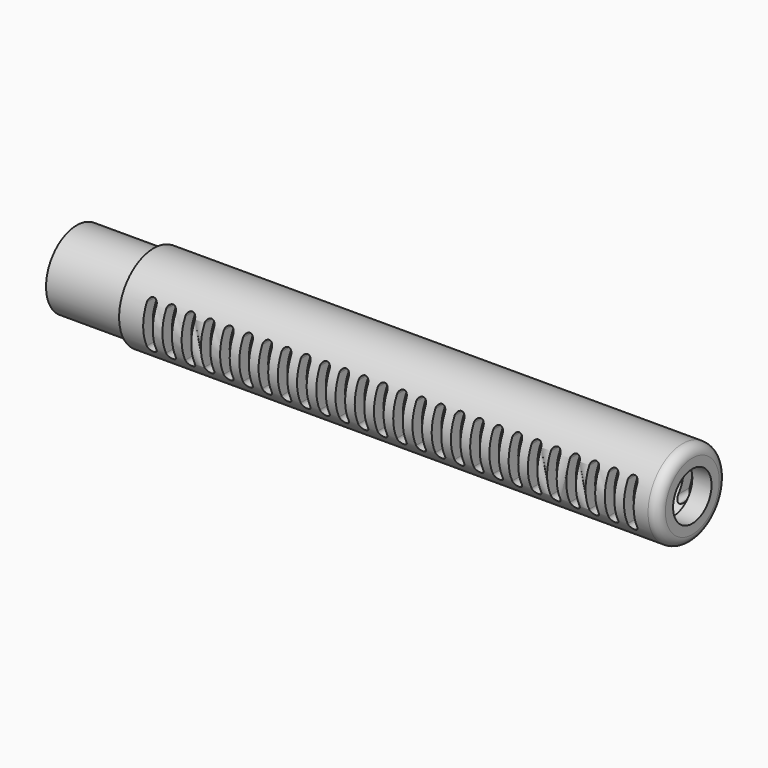
from build123d import *

# Parameters (mm, degrees)
F0_R           = 7.14375
F1_DEPTH       = 101.6
F3_D           = 10.31875
F4_R           = 12.7
F4_R_2         = 6.35
F5_DEPTH       = 12.7
F6_R           = 5.159375
F6_R_2         = 3.96875
F7_DEPTH       = 3.175
F8_R           = 1.5875
F10_DEPTH      = 7.14475
F10_DEPTH_BACK = 7.14475


with BuildPart() as f1:
    # F0 (on Right) → F1 (new body)
    with BuildSketch(Plane.YZ):
        Circle(F0_R)
    extrude(amount=F1_DEPTH)

    # F3 (through all)
    with Locations(Plane(origin=(0, 0, 0), x_dir=(0, 1, 0), z_dir=(-1, 0, 0))):
        with Locations((0, 0)):
            Hole(F3_D / 2)

    # F4 (on Right) → F5 (cut)
    with BuildSketch(Plane.YZ):
        Circle(F4_R)
        Circle(F4_R_2, mode=Mode.SUBTRACT)
    extrude(amount=F5_DEPTH, mode=Mode.SUBTRACT)

    # F6 (on face) → F7 (join)
    with BuildSketch(Plane.YZ.offset(101.6)):
        Circle(F6_R)
        Circle(F6_R_2, mode=Mode.SUBTRACT)
    extrude(amount=-F7_DEPTH)

    # F8
    f8_edges = [f1.edges().sort_by_distance(p)[0] for p in [
        (101.6, -7.14375, 0),
    ]]
    fillet(f8_edges, radius=F8_R)

    # F9 (on Front) → F10 (cut, two sides)
    with BuildSketch(Plane.XZ) as f10_sk:
        with BuildLine():
            Line((89.69375, 3.175), (89.69375, -3.175))
            ThreePointArc((89.69375, -3.175), (89.9262339924, -3.7362660076), (90.4875, -3.96875))
            ThreePointArc((90.4875, -3.96875), (91.0487660076, -3.7362660076), (91.28125, -3.175))
            Line((91.28125, -3.175), (91.28125, 3.175))
            ThreePointArc((91.28125, 3.175), (91.0487660076, 3.7362660076), (90.4875, 3.96875))
            ThreePointArc((90.4875, 3.96875), (89.9262339924, 3.7362660076), (89.69375, 3.175))
        make_face()
        with BuildLine():
            Line((86.51875, 3.175), (86.51875, -3.175))
            ThreePointArc((86.51875, -3.175), (86.7512339924, -3.7362660076), (87.3125, -3.96875))
            ThreePointArc((87.3125, -3.96875), (87.8737660076, -3.7362660076), (88.10625, -3.175))
            Line((88.10625, -3.175), (88.10625, 3.175))
            ThreePointArc((88.10625, 3.175), (87.8737660076, 3.7362660076), (87.3125, 3.96875))
            ThreePointArc((87.3125, 3.96875), (86.7512339924, 3.7362660076), (86.51875, 3.175))
        make_face()
        with BuildLine():
            Line((83.34375, 3.175), (83.34375, -3.175))
            ThreePointArc((83.34375, -3.175), (83.5762339924, -3.7362660076), (84.1375, -3.96875))
            ThreePointArc((84.1375, -3.96875), (84.6987660076, -3.7362660076), (84.93125, -3.175))
            Line((84.93125, -3.175), (84.93125, 3.175))
            ThreePointArc((84.93125, 3.175), (84.6987660076, 3.7362660076), (84.1375, 3.96875))
            ThreePointArc((84.1375, 3.96875), (83.5762339924, 3.7362660076), (83.34375, 3.175))
        make_face()
        with BuildLine():
            Line((80.16875, 3.175), (80.16875, -3.175))
            ThreePointArc((80.16875, -3.175), (80.4012339924, -3.7362660076), (80.9625, -3.96875))
            ThreePointArc((80.9625, -3.96875), (81.5237660076, -3.7362660076), (81.75625, -3.175))
            Line((81.75625, -3.175), (81.75625, 3.175))
            ThreePointArc((81.75625, 3.175), (81.5237660076, 3.7362660076), (80.9625, 3.96875))
            ThreePointArc((80.9625, 3.96875), (80.4012339924, 3.7362660076), (80.16875, 3.175))
        make_face()
        with BuildLine():
            Line((76.99375, 3.175), (76.99375, -3.175))
            ThreePointArc((76.99375, -3.175), (77.2262339924, -3.7362660076), (77.7875, -3.96875))
            ThreePointArc((77.7875, -3.96875), (78.3487660076, -3.7362660076), (78.58125, -3.175))
            Line((78.58125, -3.175), (78.58125, 3.175))
            ThreePointArc((78.58125, 3.175), (78.3487660076, 3.7362660076), (77.7875, 3.96875))
            ThreePointArc((77.7875, 3.96875), (77.2262339924, 3.7362660076), (76.99375, 3.175))
        make_face()
        with BuildLine():
            Line((73.81875, 3.175), (73.81875, -3.175))
            ThreePointArc((73.81875, -3.175), (74.0512339924, -3.7362660076), (74.6125, -3.96875))
            ThreePointArc((74.6125, -3.96875), (75.1737660076, -3.7362660076), (75.40625, -3.175))
            Line((75.40625, -3.175), (75.40625, 3.175))
            ThreePointArc((75.40625, 3.175), (75.1737660076, 3.7362660076), (74.6125, 3.96875))
            ThreePointArc((74.6125, 3.96875), (74.0512339924, 3.7362660076), (73.81875, 3.175))
        make_face()
        with BuildLine():
            Line((70.64375, 3.175), (70.64375, -3.175))
            ThreePointArc((70.64375, -3.175), (70.8762339924, -3.7362660076), (71.4375, -3.96875))
            ThreePointArc((71.4375, -3.96875), (71.9987660076, -3.7362660076), (72.23125, -3.175))
            Line((72.23125, -3.175), (72.23125, 3.175))
            ThreePointArc((72.23125, 3.175), (71.9987660076, 3.7362660076), (71.4375, 3.96875))
            ThreePointArc((71.4375, 3.96875), (70.8762339924, 3.7362660076), (70.64375, 3.175))
        make_face()
        with BuildLine():
            Line((67.46875, 3.175), (67.46875, -3.175))
            ThreePointArc((67.46875, -3.175), (67.7012339924, -3.7362660076), (68.2625, -3.96875))
            ThreePointArc((68.2625, -3.96875), (68.8237660076, -3.7362660076), (69.05625, -3.175))
            Line((69.05625, -3.175), (69.05625, 3.175))
            ThreePointArc((69.05625, 3.175), (68.8237660076, 3.7362660076), (68.2625, 3.96875))
            ThreePointArc((68.2625, 3.96875), (67.7012339924, 3.7362660076), (67.46875, 3.175))
        make_face()
        with BuildLine():
            Line((64.29375, 3.175), (64.29375, -3.175))
            ThreePointArc((64.29375, -3.175), (64.5262339924, -3.7362660076), (65.0875, -3.96875))
            ThreePointArc((65.0875, -3.96875), (65.6487660076, -3.7362660076), (65.88125, -3.175))
            Line((65.88125, -3.175), (65.88125, 3.175))
            ThreePointArc((65.88125, 3.175), (65.6487660076, 3.7362660076), (65.0875, 3.96875))
            ThreePointArc((65.0875, 3.96875), (64.5262339924, 3.7362660076), (64.29375, 3.175))
        make_face()
        with BuildLine():
            Line((61.11875, 3.175), (61.11875, -3.175))
            ThreePointArc((61.11875, -3.175), (61.3512339924, -3.7362660076), (61.9125, -3.96875))
            ThreePointArc((61.9125, -3.96875), (62.4737660076, -3.7362660076), (62.70625, -3.175))
            Line((62.70625, -3.175), (62.70625, 3.175))
            ThreePointArc((62.70625, 3.175), (62.4737660076, 3.7362660076), (61.9125, 3.96875))
            ThreePointArc((61.9125, 3.96875), (61.3512339924, 3.7362660076), (61.11875, 3.175))
        make_face()
        with BuildLine():
            Line((57.94375, 3.175), (57.94375, -3.175))
            ThreePointArc((57.94375, -3.175), (58.1762339924, -3.7362660076), (58.7375, -3.96875))
            ThreePointArc((58.7375, -3.96875), (59.2987660076, -3.7362660076), (59.53125, -3.175))
            Line((59.53125, -3.175), (59.53125, 3.175))
            ThreePointArc((59.53125, 3.175), (59.2987660076, 3.7362660076), (58.7375, 3.96875))
            ThreePointArc((58.7375, 3.96875), (58.1762339924, 3.7362660076), (57.94375, 3.175))
        make_face()
        with BuildLine():
            Line((23.01875, 3.175), (23.01875, -3.175))
            ThreePointArc((23.01875, -3.175), (23.2512339924, -3.7362660076), (23.8125, -3.96875))
            ThreePointArc((23.8125, -3.96875), (24.3737660076, -3.7362660076), (24.60625, -3.175))
            Line((24.60625, -3.175), (24.60625, 3.175))
            ThreePointArc((24.60625, 3.175), (24.3737660076, 3.7362660076), (23.8125, 3.96875))
            ThreePointArc((23.8125, 3.96875), (23.2512339924, 3.7362660076), (23.01875, 3.175))
        make_face()
        with BuildLine():
            Line((26.19375, 3.175), (26.19375, -3.175))
            ThreePointArc((26.19375, -3.175), (26.4262339924, -3.7362660076), (26.9875, -3.96875))
            ThreePointArc((26.9875, -3.96875), (27.5487660076, -3.7362660076), (27.78125, -3.175))
            Line((27.78125, -3.175), (27.78125, 3.175))
            ThreePointArc((27.78125, 3.175), (27.5487660076, 3.7362660076), (26.9875, 3.96875))
            ThreePointArc((26.9875, 3.96875), (26.4262339924, 3.7362660076), (26.19375, 3.175))
        make_face()
        with BuildLine():
            Line((19.84375, 3.175), (19.84375, -3.175))
            ThreePointArc((19.84375, -3.175), (20.0762339924, -3.7362660076), (20.6375, -3.96875))
            ThreePointArc((20.6375, -3.96875), (21.1987660076, -3.7362660076), (21.43125, -3.175))
            Line((21.43125, -3.175), (21.43125, 3.175))
            ThreePointArc((21.43125, 3.175), (21.1987660076, 3.7362660076), (20.6375, 3.96875))
            ThreePointArc((20.6375, 3.96875), (20.0762339924, 3.7362660076), (19.84375, 3.175))
        make_face()
        with BuildLine():
            Line((16.66875, 3.175), (16.66875, -3.175))
            ThreePointArc((16.66875, -3.175), (16.9012339924, -3.7362660076), (17.4625, -3.96875))
            ThreePointArc((17.4625, -3.96875), (18.0237660076, -3.7362660076), (18.25625, -3.175))
            Line((18.25625, -3.175), (18.25625, 3.175))
            ThreePointArc((18.25625, 3.175), (18.0237660076, 3.7362660076), (17.4625, 3.96875))
            ThreePointArc((17.4625, 3.96875), (16.9012339924, 3.7362660076), (16.66875, 3.175))
        make_face()
        with BuildLine():
            Line((48.41875, 3.175), (48.41875, -3.175))
            ThreePointArc((48.41875, -3.175), (48.6512339924, -3.7362660076), (49.2125, -3.96875))
            ThreePointArc((49.2125, -3.96875), (49.7737660076, -3.7362660076), (50.00625, -3.175))
            Line((50.00625, -3.175), (50.00625, 3.175))
            ThreePointArc((50.00625, 3.175), (49.7737660076, 3.7362660076), (49.2125, 3.96875))
            ThreePointArc((49.2125, 3.96875), (48.6512339924, 3.7362660076), (48.41875, 3.175))
        make_face()
        with BuildLine():
            Line((54.76875, 3.175), (54.76875, -3.175))
            ThreePointArc((54.76875, -3.175), (55.0012339924, -3.7362660076), (55.5625, -3.96875))
            ThreePointArc((55.5625, -3.96875), (56.1237660076, -3.7362660076), (56.35625, -3.175))
            Line((56.35625, -3.175), (56.35625, 3.175))
            ThreePointArc((56.35625, 3.175), (56.1237660076, 3.7362660076), (55.5625, 3.96875))
            ThreePointArc((55.5625, 3.96875), (55.0012339924, 3.7362660076), (54.76875, 3.175))
        make_face()
        with BuildLine():
            Line((51.59375, 3.175), (51.59375, -3.175))
            ThreePointArc((51.59375, -3.175), (51.8262339924, -3.7362660076), (52.3875, -3.96875))
            ThreePointArc((52.3875, -3.96875), (52.9487660076, -3.7362660076), (53.18125, -3.175))
            Line((53.18125, -3.175), (53.18125, 3.175))
            ThreePointArc((53.18125, 3.175), (52.9487660076, 3.7362660076), (52.3875, 3.96875))
            ThreePointArc((52.3875, 3.96875), (51.8262339924, 3.7362660076), (51.59375, 3.175))
        make_face()
        with BuildLine():
            Line((32.54375, 3.175), (32.54375, -3.175))
            ThreePointArc((32.54375, -3.175), (32.7762339924, -3.7362660076), (33.3375, -3.96875))
            ThreePointArc((33.3375, -3.96875), (33.8987660076, -3.7362660076), (34.13125, -3.175))
            Line((34.13125, -3.175), (34.13125, 3.175))
            ThreePointArc((34.13125, 3.175), (33.8987660076, 3.7362660076), (33.3375, 3.96875))
            ThreePointArc((33.3375, 3.96875), (32.7762339924, 3.7362660076), (32.54375, 3.175))
        make_face()
        with BuildLine():
            Line((29.36875, 3.175), (29.36875, -3.175))
            ThreePointArc((29.36875, -3.175), (29.6012339924, -3.7362660076), (30.1625, -3.96875))
            ThreePointArc((30.1625, -3.96875), (30.7237660076, -3.7362660076), (30.95625, -3.175))
            Line((30.95625, -3.175), (30.95625, 3.175))
            ThreePointArc((30.95625, 3.175), (30.7237660076, 3.7362660076), (30.1625, 3.96875))
            ThreePointArc((30.1625, 3.96875), (29.6012339924, 3.7362660076), (29.36875, 3.175))
        make_face()
        with BuildLine():
            Line((38.89375, 3.175), (38.89375, -3.175))
            ThreePointArc((38.89375, -3.175), (39.1262339924, -3.7362660076), (39.6875, -3.96875))
            ThreePointArc((39.6875, -3.96875), (40.2487660076, -3.7362660076), (40.48125, -3.175))
            Line((40.48125, -3.175), (40.48125, 3.175))
            ThreePointArc((40.48125, 3.175), (40.2487660076, 3.7362660076), (39.6875, 3.96875))
            ThreePointArc((39.6875, 3.96875), (39.1262339924, 3.7362660076), (38.89375, 3.175))
        make_face()
        with BuildLine():
            Line((35.71875, 3.175), (35.71875, -3.175))
            ThreePointArc((35.71875, -3.175), (35.9512339924, -3.7362660076), (36.5125, -3.96875))
            ThreePointArc((36.5125, -3.96875), (37.0737660076, -3.7362660076), (37.30625, -3.175))
            Line((37.30625, -3.175), (37.30625, 3.175))
            ThreePointArc((37.30625, 3.175), (37.0737660076, 3.7362660076), (36.5125, 3.96875))
            ThreePointArc((36.5125, 3.96875), (35.9512339924, 3.7362660076), (35.71875, 3.175))
        make_face()
        with BuildLine():
            Line((42.06875, 3.175), (42.06875, -3.175))
            ThreePointArc((42.06875, -3.175), (42.3012339924, -3.7362660076), (42.8625, -3.96875))
            ThreePointArc((42.8625, -3.96875), (43.4237660076, -3.7362660076), (43.65625, -3.175))
            Line((43.65625, -3.175), (43.65625, 3.175))
            ThreePointArc((43.65625, 3.175), (43.4237660076, 3.7362660076), (42.8625, 3.96875))
            ThreePointArc((42.8625, 3.96875), (42.3012339924, 3.7362660076), (42.06875, 3.175))
        make_face()
        with BuildLine():
            Line((45.24375, 3.175), (45.24375, -3.175))
            ThreePointArc((45.24375, -3.175), (45.4762339924, -3.7362660076), (46.0375, -3.96875))
            ThreePointArc((46.0375, -3.96875), (46.5987660076, -3.7362660076), (46.83125, -3.175))
            Line((46.83125, -3.175), (46.83125, 3.175))
            ThreePointArc((46.83125, 3.175), (46.5987660076, 3.7362660076), (46.0375, 3.96875))
            ThreePointArc((46.0375, 3.96875), (45.4762339924, 3.7362660076), (45.24375, 3.175))
        make_face()
        with BuildLine():
            Line((96.04375, 3.175), (96.04375, -3.175))
            ThreePointArc((96.04375, -3.175), (96.2762339924, -3.7362660076), (96.8375, -3.96875))
            ThreePointArc((96.8375, -3.96875), (97.3987660076, -3.7362660076), (97.63125, -3.175))
            Line((97.63125, -3.175), (97.63125, 3.175))
            ThreePointArc((97.63125, 3.175), (97.3987660076, 3.7362660076), (96.8375, 3.96875))
            ThreePointArc((96.8375, 3.96875), (96.2762339924, 3.7362660076), (96.04375, 3.175))
        make_face()
        with BuildLine():
            Line((92.86875, 3.175), (92.86875, -3.175))
            ThreePointArc((92.86875, -3.175), (93.1012339924, -3.7362660076), (93.6625, -3.96875))
            ThreePointArc((93.6625, -3.96875), (94.2237660076, -3.7362660076), (94.45625, -3.175))
            Line((94.45625, -3.175), (94.45625, 3.175))
            ThreePointArc((94.45625, 3.175), (94.2237660076, 3.7362660076), (93.6625, 3.96875))
            ThreePointArc((93.6625, 3.96875), (93.1012339924, 3.7362660076), (92.86875, 3.175))
        make_face()
    extrude(amount=-F10_DEPTH, mode=Mode.SUBTRACT)
    extrude(f10_sk.sketch, amount=F10_DEPTH_BACK, mode=Mode.SUBTRACT)


solid = f1.part
